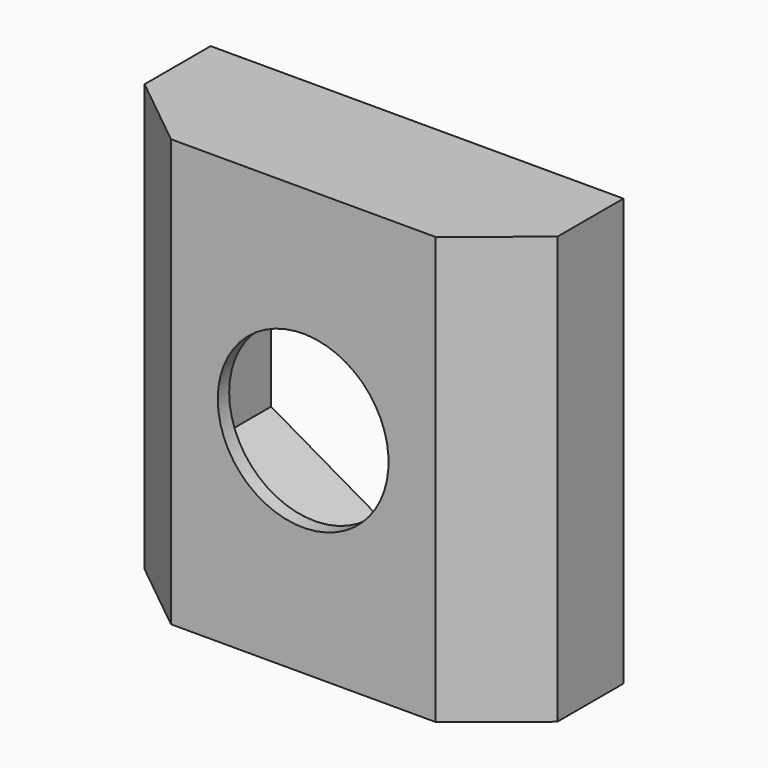
from build123d import *

# Parameters (mm, degrees)
PAD_DEPTH       = 7.5
POCKET_DEPTH    = 4.5
SKETCH002_R     = 3
POCKET001_DEPTH = 5.001


with BuildPart() as part:
    # Sketch → Pad (new body, symmetric)
    with BuildSketch(Plane.XY):
        Polygon((7.25, 5), (7.25, 2.1), (4.641857, 0), (0, 0), (-4.641857, 0), (-7.25, 2.1), (-7.25, 5), (0, 5), align=None)
    extrude(amount=PAD_DEPTH, both=True)

    # Sketch001 (on Face1 of Pad) → Pocket (cut)
    with BuildSketch(Plane(origin=(0, 5, 0), x_dir=(-1, 0, 0), z_dir=(0, 1, 0))):
        Polygon((0, 5.91784), (-5.125, 2.95892), (-5.125, -2.95892), (0, -5.91784), (5.125, -2.95892), (5.125, 2.95892), align=None)
    extrude(amount=-POCKET_DEPTH, mode=Mode.SUBTRACT)

    # Sketch002 (on Face1 of Pocket) → Pocket001 (cut, through all)
    with BuildSketch(Plane(origin=(0, 5, 0), x_dir=(-1, 0, 0), z_dir=(0, 1, 0))):
        Circle(SKETCH002_R)
    extrude(amount=-POCKET001_DEPTH, mode=Mode.SUBTRACT)


solid = part.part
